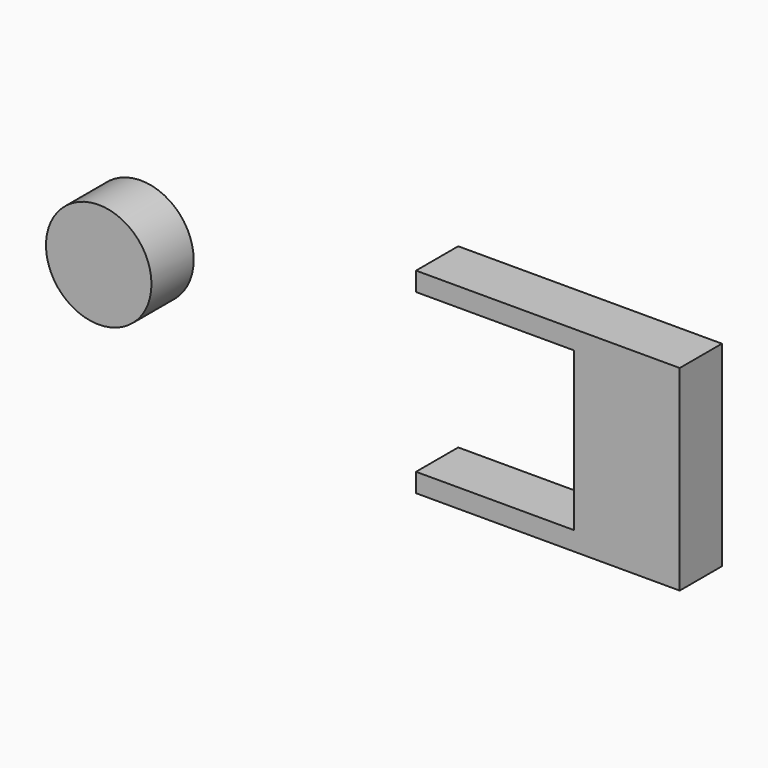
from build123d import *

# Parameters (mm, degrees)
F2_DEPTH = 6.35
F1_R     = 12.7


with BuildPart() as f2:
    # F0 (on Front) → F2 (new body, symmetric)
    with BuildSketch(Plane.XZ):
        Polygon((38.1, 19.05), (38.1, 0), (38.1, -19.05), (0, -19.05), (0, -23.5955733232), (63.5, -23.5955733232), (63.5, 0), (63.5, 23.5955733232), (0, 23.5955733232), (0, 19.05), align=None)
    extrude(amount=F2_DEPTH, both=True)


with BuildPart() as f2b:
    # F1 (on Front) → F2, piece 2 (new body, symmetric)
    with BuildSketch(Plane.XZ):
        with Locations((-76.4043643611, 0)):
            Circle(F1_R)
    extrude(amount=F2_DEPTH, both=True)


solid = Compound([f2.part, f2b.part])
